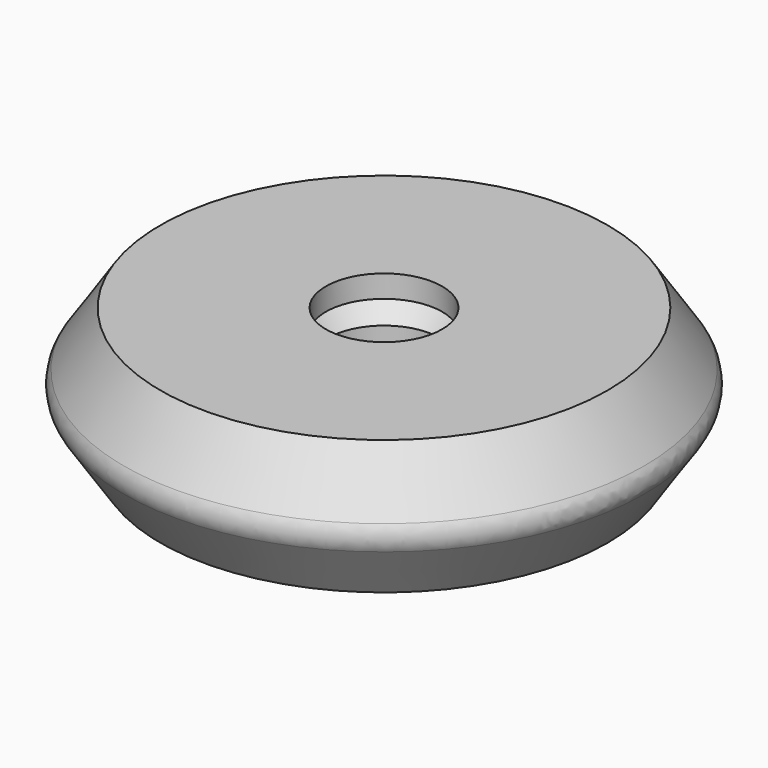
from build123d import *

# Parameters (mm, degrees)
F2_R      = 12
F0_R      = 10
F5_R      = 8.15
F6_DEPTH  = 5
F7_R      = 2.6
F8_DEPTH  = 1
F9_R      = 1
F10_R     = 0.5
F11_R     = 8
F11_R_2   = 2.5
F12_DEPTH = 5
F13_SIZE  = 0.5
F14_SIZE  = 1


with BuildPart() as f3:
    # F2 (on offset) → F3 section 0
    with BuildSketch(Plane.XY.offset(3)):
        Circle(F2_R)
    # F0 (on Top) → F3 section 1
    with BuildSketch(Plane.XY):
        Circle(F0_R)
    loft()

    # F4: F3 across plane


with BuildPart() as f3_1:
    add(f3.part)
    add(f3.part.mirror(Plane.XY.offset(3)))

    # F5 (on face) → F6 (cut)
    with BuildSketch(Plane(origin=(0, 0, 0), x_dir=(1, 0, 0), z_dir=(0, 0, -1))):
        Circle(F5_R)
    extrude(amount=-F6_DEPTH, mode=Mode.SUBTRACT)

    # F7 (on face) → F8 (cut, through all)
    with BuildSketch(Plane(origin=(0, 0, 5), x_dir=(1, 0, 0), z_dir=(0, 0, -1))):
        Circle(F7_R)
    extrude(amount=-F8_DEPTH, mode=Mode.SUBTRACT)

    # F9
    f9_edges = [f3_1.edges().sort_by_distance(p)[0] for p in [
        (-12, 0, 3),
    ]]
    fillet(f9_edges, radius=F9_R)

    # F10
    f10_edges = [f3_1.edges().sort_by_distance(p)[0] for p in [
        (-8.15, 0, 5),
    ]]
    fillet(f10_edges, radius=F10_R)


with BuildPart() as f12:
    # F11 (on face) → F12 (new body)
    with BuildSketch(Plane(origin=(0, 0, 5), x_dir=(1, 0, 0), z_dir=(0, 0, -1))):
        Circle(F11_R)
        Circle(F11_R_2, mode=Mode.SUBTRACT)
    extrude(amount=F12_DEPTH)

    # F13
    f13_edges = [f12.edges().sort_by_distance(p)[0] for p in [
        (-8, 0, 0),
        (-8, 0, 5),
    ]]
    chamfer(f13_edges, length=F13_SIZE)

    # F14
    f14_edges = [f12.edges().sort_by_distance(p)[0] for p in [
        (-2.5, 0, 0),
        (-2.5, 0, 5),
    ]]
    chamfer(f14_edges, length=F14_SIZE)


solid = Compound([f3_1.part, f12.part])
